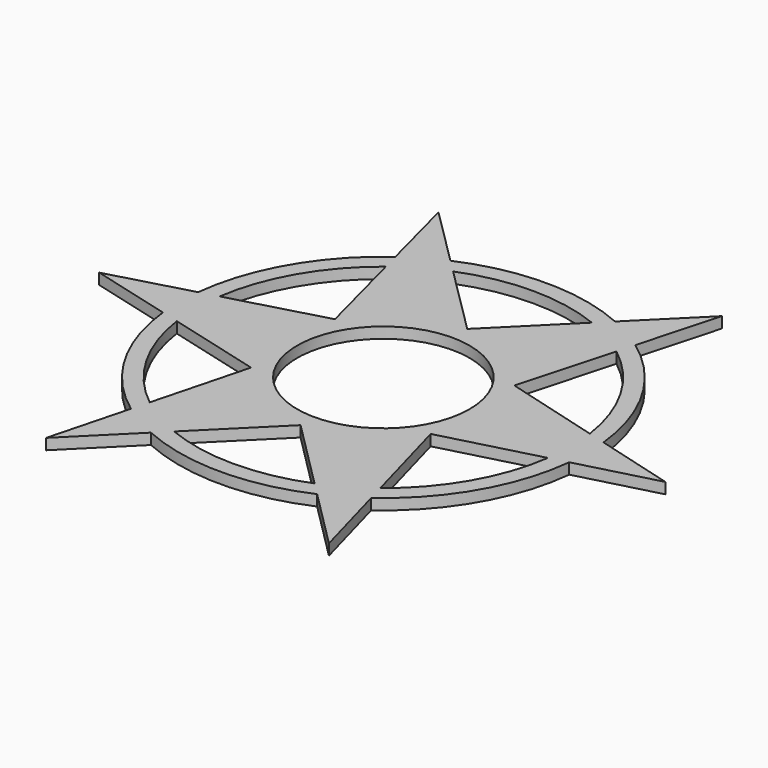
from build123d import *

# Parameters (mm, degrees)
F0_R     = 20.047266
F1_DEPTH = 2.54


with BuildPart() as f1:
    # F0 (on Top) → F1 (new body)
    with BuildSketch(Plane.XY):
        with BuildLine():
            ThreePointArc((47.216884, 5.001183), (41.077621, 23.813338), (27.803349, 38.489217))
            Line((27.803349, 38.489217), (32.972034, 57.228676))
            Line((32.972034, 57.228676), (19.137083, 43.453631))
            ThreePointArc((19.137083, 43.453631), (-0.008949, 47.481006), (-19.153462, 43.446414))
            Line((-19.153462, 43.446414), (-32.759971, 56.977294))
            Line((-32.759971, 56.977294), (-27.926999, 38.399593))
            ThreePointArc((-27.926999, 38.399593), (-41.076878, 23.814619), (-47.200233, 5.155968))
            Line((-47.200233, 5.155968), (-66.047504, -0.059719))
            Line((-66.047504, -0.059719), (-47.209021, -5.074873))
            ThreePointArc((-47.209021, -5.074873), (-41.1448, -23.697077), (-28.080388, -38.287568))
            Line((-28.080388, -38.287568), (-32.963799, -56.859614))
            Line((-32.963799, -56.859614), (-19.379036, -43.346268))
            ThreePointArc((-19.379036, -43.346268), (-0.043958, -47.480986), (19.298742, -43.382076))
            Line((19.298742, -43.382076), (33.07547, -57.168957))
            Line((33.07547, -57.168957), (27.900469, -38.418873))
            ThreePointArc((27.900469, -38.418873), (41.109245, -23.758703), (47.217551, -4.994882))
            Line((47.217551, -4.994882), (65.72377, -0.11768))
            Line((65.72377, -0.11768), (47.216884, 5.001183))
        make_face()
        with BuildLine():
            Line((-43.119181, -6.163664), (-21.170047, -12.00693))
            Line((-21.170047, -12.00693), (-27.000214, -34.17957))
            ThreePointArc((-27.000214, -34.17957), (-37.754538, -21.722095), (-43.119181, -6.163664))
        make_face(mode=Mode.SUBTRACT)
        with BuildLine():
            Line((-16.37804, -40.36105), (0, -24.069112))
            Line((0, -24.069112), (16.308193, -40.389323))
            ThreePointArc((16.308193, -40.389323), (-0.037676, -43.557469), (-16.37804, -40.36105))
        make_face(mode=Mode.SUBTRACT)
        with BuildLine():
            Line((26.778455, -34.353586), (20.610804, -12.00693))
            Line((20.610804, -12.00693), (43.13225, -6.071539))
            ThreePointArc((43.13225, -6.071539), (37.707363, -21.803884), (26.778455, -34.353586))
        make_face(mode=Mode.SUBTRACT)
        Circle(F0_R, mode=Mode.SUBTRACT)
        with BuildLine():
            Line((-26.858221, 34.29126), (-21.153839, 12.3639))
            Line((-21.153839, 12.3639), (-43.100875, 6.290401))
            ThreePointArc((-43.100875, 6.290401), (-37.677324, 21.855749), (-26.858221, 34.29126))
        make_face(mode=Mode.SUBTRACT)
        with BuildLine():
            Line((43.123499, 6.133382), (20.597509, 12.3639))
            Line((20.597509, 12.3639), (26.683107, 34.427697))
            ThreePointArc((26.683107, 34.427697), (37.661421, 21.883142), (43.123499, 6.133382))
        make_face(mode=Mode.SUBTRACT)
        with BuildLine():
            Line((16.130895, 40.460459), (0, 24.399411))
            Line((0, 24.399411), (-16.145114, 40.454787))
            ThreePointArc((-16.145114, 40.454787), (-0.007654, 43.557485), (16.130895, 40.460459))
        make_face(mode=Mode.SUBTRACT)
    extrude(amount=F1_DEPTH)


solid = f1.part
